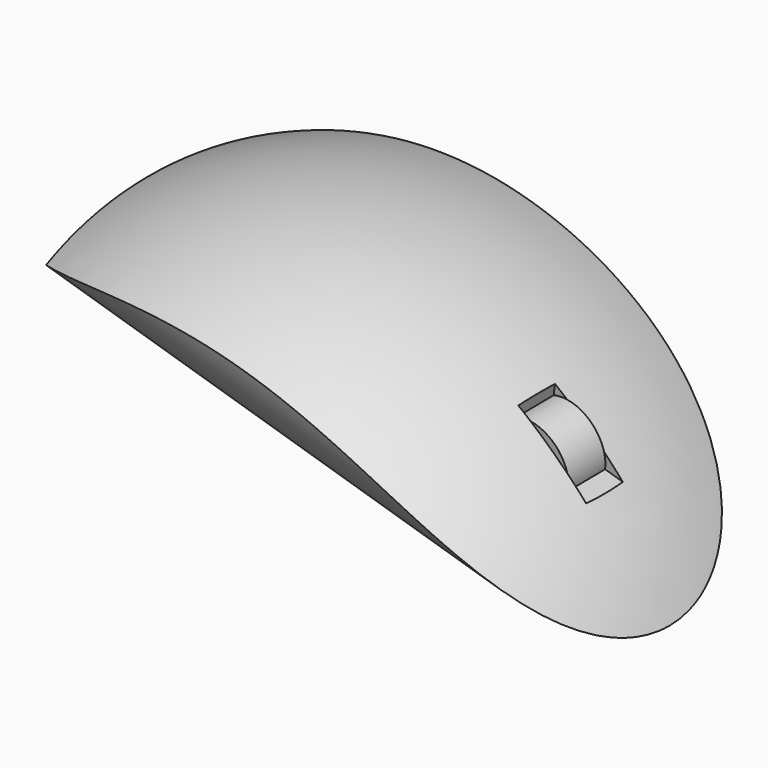
from build123d import *

# Parameters (mm, degrees)
CYLINDER001_R             = 0.5
CYLINDER001_DEPTH         = 0.5
CYLINDER001_ROLL_ANGLE    = 90
BOX_W                     = 1
BOX_H                     = 0.5
BOX_DEPTH                 = 4
CYLINDER_R                = 2
CYLINDER_DEPTH            = 10
CYLINDER_PITCH_ANGLE      = 90
SPHERE001_ROLL_ANGLE      = 112.509495
SPHERE001_PITCH_ANGLE     = -50.257982
SPHERE001_PLACEMENT_ANGLE = -48.327625
FUSION_ROLL_ANGLE         = 5.722395
FUSION_PITCH_ANGLE        = 12.745212
FUSION_PLACEMENT_ANGLE    = -4.811312


with BuildPart() as cylinder001:
    # Cylinder001 → Cylinder001 (new body)
    with BuildSketch(Plane.XY):
        Circle(CYLINDER001_R)
    extrude(amount=CYLINDER001_DEPTH)


with BuildPart() as cylinder001_1:
    # Cylinder001 roll: moved
    add(cylinder001.part.rotate(Axis((0, 0, 0), (1, 0, 0)), CYLINDER001_ROLL_ANGLE))


with BuildPart() as cylinder001_2:
    # Cylinder001 placement: moved
    add(cylinder001_1.part.moved(Location((2.25, 0.25, 4))))


with BuildPart() as cube:
    # Box → Box (new body)
    with BuildSketch(Plane(origin=(2, -0.25, 4), x_dir=(1, 0, 0), z_dir=(0, 0, 1))):
        with Locations((0.5, 0.25)):
            Rectangle(BOX_W, BOX_H)
    extrude(amount=BOX_DEPTH)


with BuildPart() as cylinder:
    # Cylinder → Cylinder (new body)
    with BuildSketch(Plane.XY):
        Circle(CYLINDER_R)
    extrude(amount=CYLINDER_DEPTH)


with BuildPart() as cylinder_1:
    # Cylinder pitch: moved
    add(cylinder.part.rotate(Axis((0, 0, 0), (0, 1, 0)), CYLINDER_PITCH_ANGLE))


with BuildPart() as cylinder_2:
    # Cylinder placement: moved
    add(cylinder_1.part.moved(Location((-5, 0, 5))))


with BuildPart() as common:
    # Sphere → Sphere (revolve)
    with BuildSketch(Plane.XZ):
        with BuildLine():
            ThreePointArc((0, -5), (5, 0), (0, 5))
            Line((0, 5), (0, -5))
        make_face()
    revolve(axis=Axis((0, 0, 0), (0, 0, 1)))

    # Common: intersect Cylinder
    add(cylinder_2.part, mode=Mode.INTERSECT)


with BuildPart() as fusion:
    # Sphere001 → Sphere001 (revolve)
    with BuildSketch(Plane.XZ):
        with BuildLine():
            ThreePointArc((0, -5.5), (5.5, 0), (0, 5.5))
            Line((0, 5.5), (0, -5.5))
        make_face()
    revolve(axis=Axis((0, 0, 0), (0, 0, 1)))


with BuildPart() as fusion_1:
    # Sphere001 roll: moved
    add(fusion.part.rotate(Axis((0, 0, 0), (1, 0, 0)), SPHERE001_ROLL_ANGLE))


with BuildPart() as fusion_2:
    # Sphere001 pitch: moved
    add(fusion_1.part.rotate(Axis((0, 0, 0), (0, 1, 0)), SPHERE001_PITCH_ANGLE))


with BuildPart() as fusion_3:
    # Sphere001 placement: moved
    add(fusion_2.part.moved(Location((1.999999, -0.001152, 2))).rotate(Axis((1.999999, -0.001152, 2), (0, 0, 1)), SPHERE001_PLACEMENT_ANGLE))

    # Common001: intersect Common
    add(common.part, mode=Mode.INTERSECT)

    # Cut: cut Cube
    add(cube.part, mode=Mode.SUBTRACT)

    # Fusion: union Cylinder001
    add(cylinder001_2.part)


with BuildPart() as fusion_4:
    # Fusion roll: moved
    add(fusion_3.part.rotate(Axis((0, 0, 0), (1, 0, 0)), FUSION_ROLL_ANGLE))


with BuildPart() as fusion_5:
    # Fusion pitch: moved
    add(fusion_4.part.rotate(Axis((0, 0, 0), (0, 1, 0)), FUSION_PITCH_ANGLE))


with BuildPart() as fusion_6:
    # Fusion placement: moved
    add(fusion_5.part.rotate(Axis((0, 0, 0), (0, 0, 1)), FUSION_PLACEMENT_ANGLE))


solid = fusion_6.part
